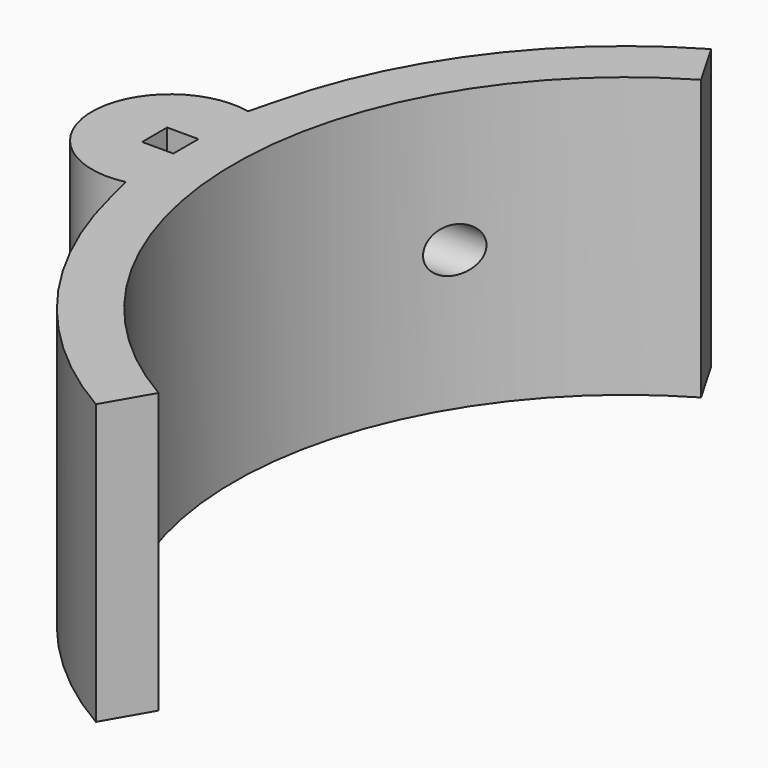
from build123d import *

# Parameters (mm, degrees)
F0_R     = 1.27
F1_DEPTH = 31.75
F2_W     = 3.556
F2_H     = 3.556
F2_R     = 1.27
F3_DEPTH = 31.75
F5_D     = 5.1054


with BuildPart() as f1:
    # F0 (on Top) → F1 (new body)
    with BuildSketch(Plane.XY):
        with BuildLine():
            ThreePointArc((-22.225, -38.494829), (-44.45, 0), (-22.225, 38.494829))
            Line((-22.225, 38.494829), (-25.2095, 43.664135))
            ThreePointArc((-25.2095, 43.664135), (-40.403306, 30.160378), (-49.029733, 11.754185))
            Line((-49.029733, 11.754185), (-49.807311, 8.688576))
            ThreePointArc((-49.807311, 8.688576), (-60.579, 0), (-49.807311, -8.688576))
            Line((-49.807311, -8.688576), (-49.029733, -11.754185))
            ThreePointArc((-49.029733, -11.754185), (-40.403306, -30.160378), (-25.2095, -43.664135))
            Line((-25.2095, -43.664135), (-22.225, -38.494829))
        make_face()
        with Locations((-51.689, 0)):
            Circle(F0_R, mode=Mode.SUBTRACT)
    extrude(amount=F1_DEPTH)

    # F2 (on face) → F3 (cut, through all)
    with BuildSketch(Plane.XY.offset(31.75)):
        with Locations((-51.689, 0)):
            Rectangle(F2_W, F2_H)
        with Locations((-51.689, 0)):
            Circle(F2_R, mode=Mode.SUBTRACT)
    extrude(amount=-F3_DEPTH, mode=Mode.SUBTRACT)

    # F5 (through all)
    with Locations(Plane.YZ):
        with Locations((-22.624822, 15.875), (23.095178, 15.875)):
            Hole(F5_D / 2)


solid = f1.part
